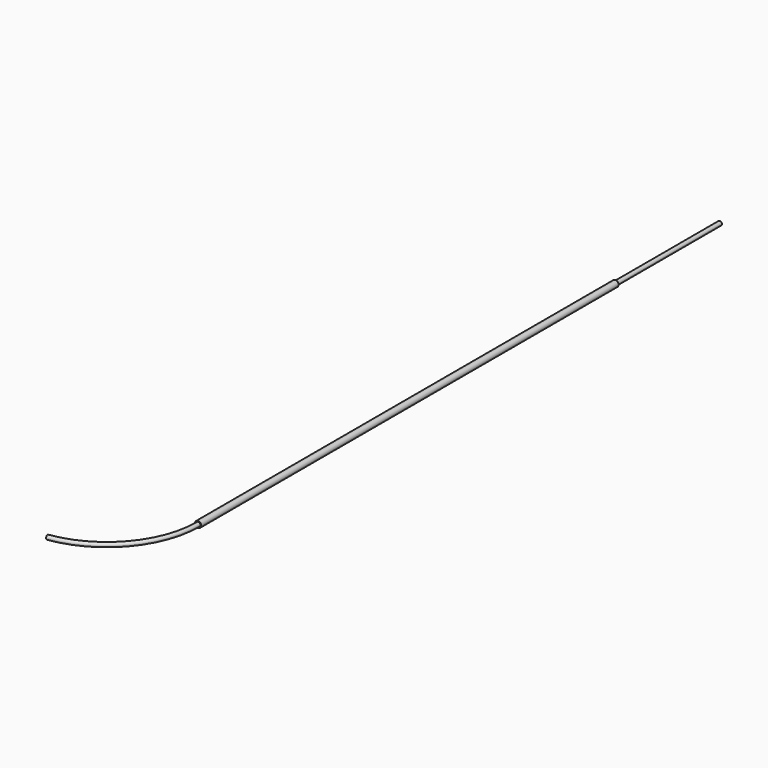
from build123d import *

# Parameters (mm, degrees)
F1_R     = 0.795
F1_R_2   = 0.7
F5_R     = 1.2
F5_R_2   = 0.9
F6_DEPTH = 200


with BuildPart() as f3:
    # F3: sweep along a path in F2
    with BuildLine(Plane.XY) as f3_path:
        Line((0, 0), (0, -250))
        ThreePointArc((0, -250), (-8.5553528655, -272.9277264012), (-30.038893596, -284.646607673))
    # F1 (on Front) → F3 (sweep)
    with BuildSketch(Plane.XZ):
        Circle(F1_R)
        Circle(F1_R_2, mode=Mode.SUBTRACT)
    sweep(path=f3_path.line)


with BuildPart() as f6:
    # F5 (on offset) → F6 (new body)
    with BuildSketch(Plane(origin=(0, -50, 0), x_dir=(-1, 0, 0), z_dir=(0, 1, 0))):
        Circle(F5_R)
        Circle(F5_R_2, mode=Mode.SUBTRACT)
    extrude(amount=-F6_DEPTH)


solid = Compound([f3.part, f6.part])
